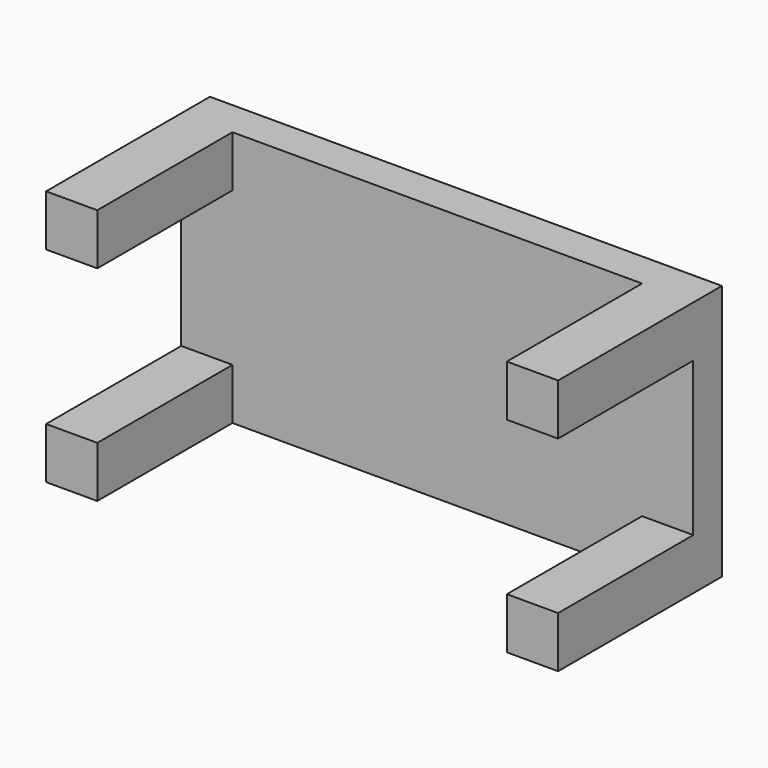
from build123d import *

# Parameters (mm, degrees)
F0_W     = 100
F0_H     = 50
F1_DEPTH = 25
F2_W     = 10
F2_H     = 10
F3_DEPTH = 15
F4_DEPTH = 18
F5_SCALE = 0.1


with BuildPart() as f1:
    # F0 (on Front) → F1 (new body)
    with BuildSketch(Plane.XZ):
        with Locations((-18.9008015549, 25)):
            Rectangle(F0_W, F0_H)
    extrude(amount=F1_DEPTH)

    # F2 (on face) → F3 (join)
    with BuildSketch(Plane.XZ.offset(25)):
        with Locations((-63.9008015549, 5)):
            Rectangle(F2_W, F2_H)
        with Locations((-63.9008015549, 45)):
            Rectangle(F2_W, F2_H)
        with Locations((26.0991984451, 45)):
            Rectangle(F2_W, F2_H)
        with Locations((26.0991984451, 5)):
            Rectangle(F2_W, F2_H)
    extrude(amount=F3_DEPTH)

    # F4 (cut): a face of the model
    f4_faces = [f1.faces().sort_by_distance(p)[0] for p in [
        (-18.9008015549, -25, 25),
    ]]
    extrude(f4_faces, amount=-F4_DEPTH, mode=Mode.SUBTRACT)


with BuildPart() as f1_1:
    # F5: moved
    add(f1.part.scale(F5_SCALE))


solid = f1_1.part
